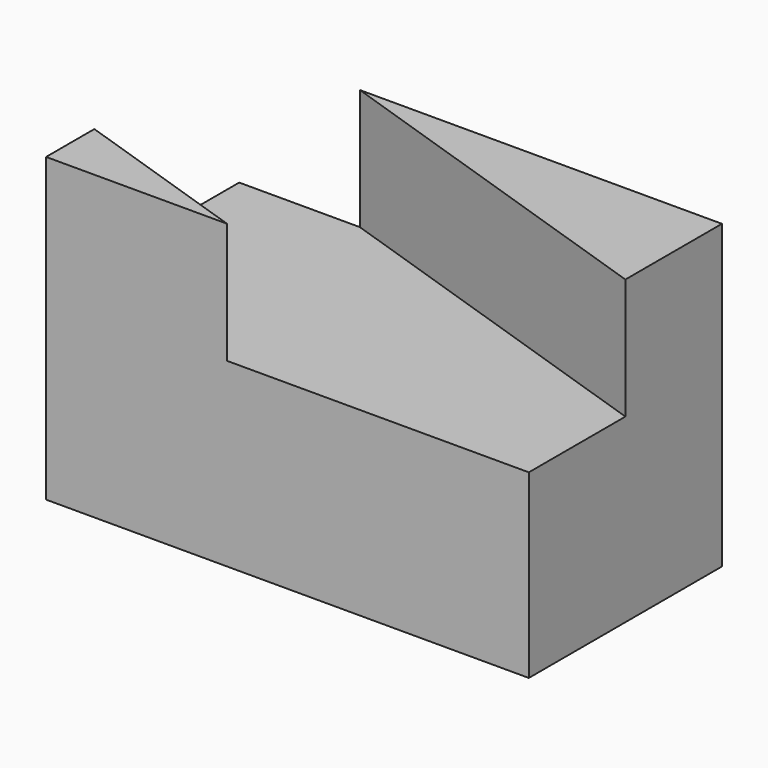
from build123d import *

# Parameters (mm, degrees)
F0_W     = 50.8
F0_H     = 25.4
F1_DEPTH = 25.4
F3_DEPTH = 25.4
F5_DEPTH = 12.7
F6_W     = 50.8
F6_H     = 19.05
F7_DEPTH = 50.8


with BuildPart() as f1:
    # F0 (on Front) → F1 (new body)
    with BuildSketch(Plane.XZ):
        with Locations((25.4, 12.7)):
            Rectangle(F0_W, F0_H)
    extrude(amount=F1_DEPTH)

    # F3 (add): a face of the model
    f3_faces = [f1.faces().sort_by_distance(p)[0] for p in [
        (25.4, -12.7, 25.4),
    ]]
    extrude(f3_faces, amount=F3_DEPTH)

    # F4 (on face) → F5 (cut)
    with BuildSketch(Plane.XY.offset(50.8)):
        Polygon((50.8, -12.7), (12.7, 0), (0, 0), (0, -19.05), (19.05, -25.4), (50.8, -25.4), align=None)
    extrude(amount=-F5_DEPTH, mode=Mode.SUBTRACT)

    # F6 (on face) → F7 (cut)
    with BuildSketch(Plane(origin=(0, 0, 0), x_dir=(-1, 0, 0), z_dir=(0, 1, 0))):
        with Locations((-25.4, 9.525)):
            Rectangle(F6_W, F6_H)
    extrude(amount=-F7_DEPTH, mode=Mode.SUBTRACT)


solid = f1.part
